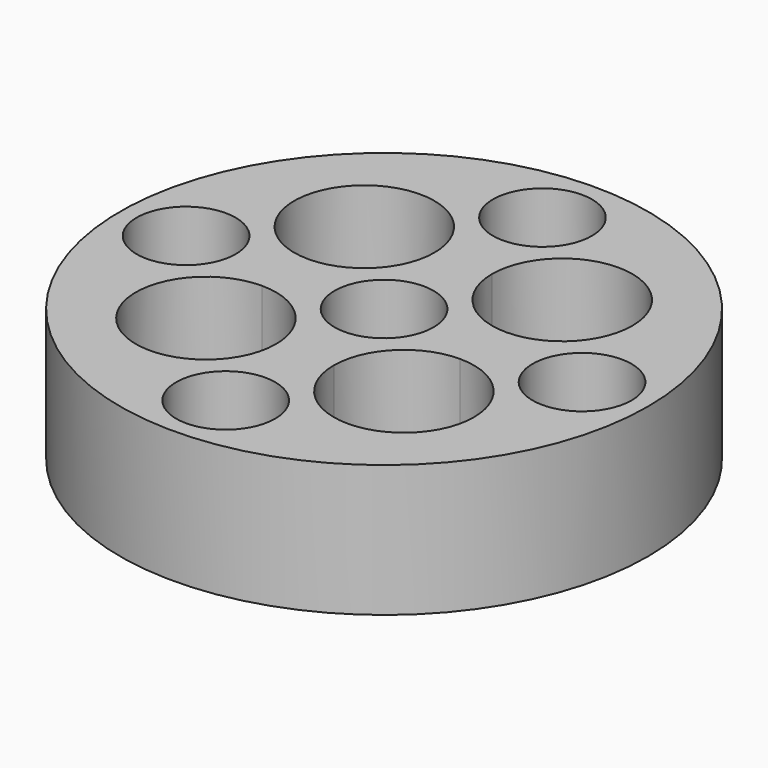
from build123d import *

# Parameters (mm, degrees)
F0_R     = 16
F1_DEPTH = 8
F3_DEPTH = 5
F4_R     = 3
F5_DEPTH = 25


with BuildPart() as f1:
    # F0 (on Top) → F1 (new body)
    with BuildSketch(Plane.XY):
        Circle(F0_R)
    extrude(amount=F1_DEPTH)

    # F2 (on face) → F3 (cut)
    with BuildSketch(Plane.XY.offset(8)):
        with BuildLine():
            ThreePointArc((6, -1.75), (2.994796, -2.994796), (1.75, -6))
            Line((1.75, -6), (6, -6))
            Line((6, -6), (6, -1.75))
        make_face()
        with BuildLine():
            Line((6, -6), (1.75, -6))
            ThreePointArc((1.75, -6), (6, -10.25), (10.25, -6))
            ThreePointArc((10.25, -6), (9.005204, -2.994796), (6, -1.75))
            Line((6, -1.75), (6, -6))
        make_face()
        with BuildLine():
            Line((-6, -6), (-1.75, -6))
            ThreePointArc((-1.75, -6), (-2.994796, -2.994796), (-6, -1.75))
            Line((-6, -1.75), (-6, -6))
        make_face()
        with BuildLine():
            ThreePointArc((-6, -1.75), (-9.005204, -9.005204), (-1.75, -6))
            Line((-1.75, -6), (-6, -6))
            Line((-6, -6), (-6, -1.75))
        make_face()
        with BuildLine():
            ThreePointArc((1.75, 6), (2.994796, 2.994796), (6, 1.75))
            Line((6, 1.75), (6, 6))
            Line((6, 6), (1.75, 6))
        make_face()
        with BuildLine():
            Line((6, 6), (6, 1.75))
            ThreePointArc((6, 1.75), (9.005204, 2.994796), (10.25, 6))
            ThreePointArc((10.25, 6), (6, 10.25), (1.75, 6))
            Line((1.75, 6), (6, 6))
        make_face()
        with BuildLine():
            ThreePointArc((-1.75, 6), (-9.005204, 9.005204), (-6, 1.75))
            Line((-6, 1.75), (-6, 6))
            Line((-6, 6), (-1.75, 6))
        make_face()
        with BuildLine():
            Line((-6, 6), (-6, 1.75))
            ThreePointArc((-6, 1.75), (-2.994796, 2.994796), (-1.75, 6))
            Line((-1.75, 6), (-6, 6))
        make_face()
    extrude(amount=-F3_DEPTH, mode=Mode.SUBTRACT)

    # F4 (on face) → F5 (cut)
    with BuildSketch(Plane.XY.offset(8)):
        Circle(F4_R)
        with Locations((-12, 0)):
            Circle(F4_R)
        with Locations((0, 12)):
            Circle(F4_R)
        with Locations((12, 0)):
            Circle(F4_R)
        with Locations((0, -12)):
            Circle(F4_R)
    extrude(amount=-F5_DEPTH, mode=Mode.SUBTRACT)


solid = f1.part
